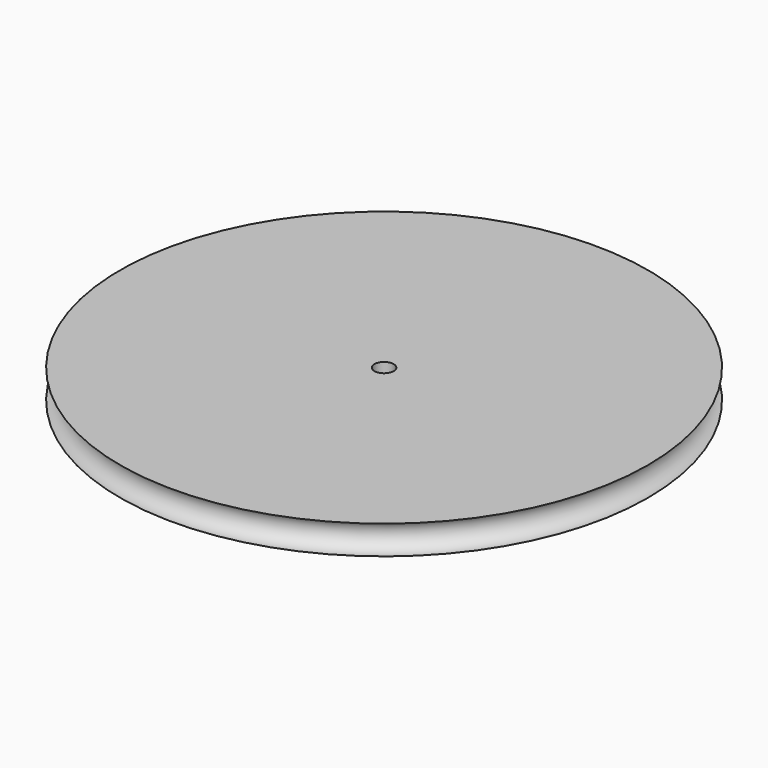
from build123d import *

# Parameters (mm, degrees)
F2_R     = 1
F3_DEPTH = 3


with BuildPart() as f1:
    # F0 (on Front) → F1 (revolve)
    with BuildSketch(Plane.XZ):
        with BuildLine():
            Line((0, 3), (0, 0))
            Line((0, 0), (27.5, 0))
            ThreePointArc((27.5, 0), (26, 1.5), (27.5, 3))
            Line((27.5, 3), (0, 3))
        make_face()
    revolve(axis=Axis((0, 0, -3.828675), (0, 0, -1)))

    # F2 (on face) → F3 (cut)
    with BuildSketch(Plane.XY.offset(3)):
        Circle(F2_R)
    extrude(amount=-F3_DEPTH, mode=Mode.SUBTRACT)


solid = f1.part
